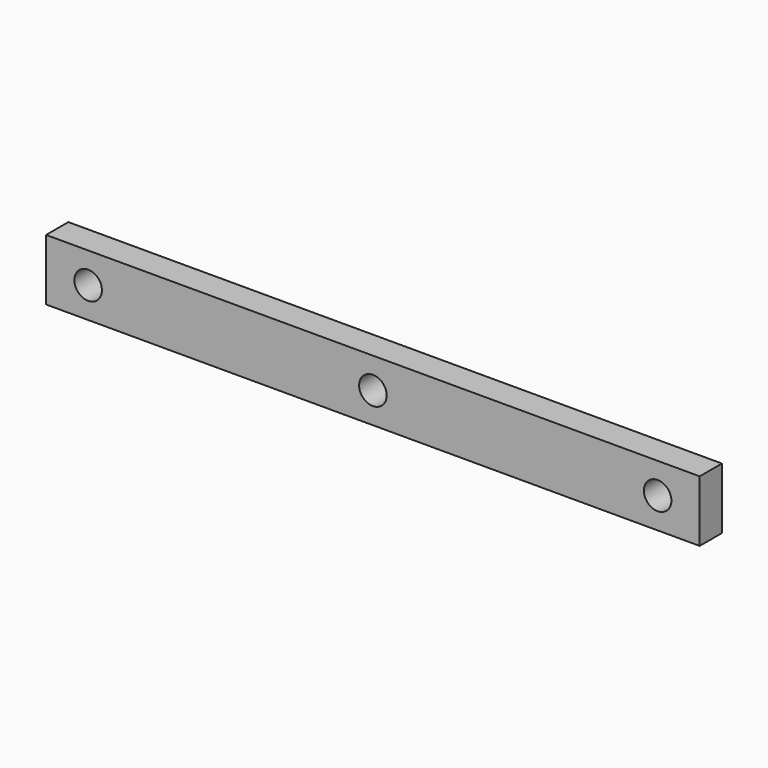
from build123d import *

# Parameters (mm, degrees)
F0_R     = 3.15
F1_DEPTH = 6.35


with BuildPart() as f1:
    # F0 (on Front) → F1 (new body)
    with BuildSketch(Plane.XZ):
        Polygon((74.677132, 7), (0, 7), (-74.677132, 7), (-74.677132, 0), (-74.677132, -7), (0, -7), (74.677132, -7), (74.677132, 0), align=None)
        with Locations((-65.061, 0)):
            Circle(F0_R, mode=Mode.SUBTRACT)
        Circle(F0_R, mode=Mode.SUBTRACT)
        with Locations((65.061, 0)):
            Circle(F0_R, mode=Mode.SUBTRACT)
    extrude(amount=F1_DEPTH)


solid = f1.part
